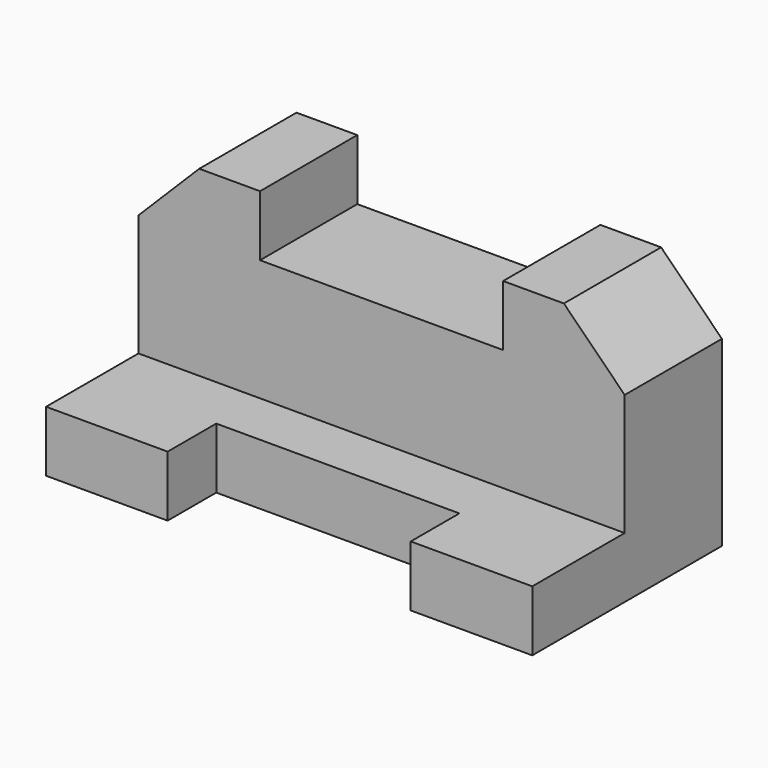
from build123d import *

# Parameters (mm, degrees)
F0_W      = 203.2
F0_H      = 76.2
F1_DEPTH  = 50.8
F2_W      = 50.8
F2_H      = 50.8
F3_DEPTH  = 25.4
F4_W      = 203.2
F4_H      = 25.4
F5_DEPTH  = 48.26
F6_W      = 101.6
F6_H      = 25.4
F7_DEPTH  = 25.4
F8_W      = 25.4
F8_H      = 50.8
F9_DEPTH  = 25.4
F11_DEPTH = 50.8


with BuildPart() as f1:
    # F0 (on Front) → F1 (new body)
    with BuildSketch(Plane.XZ):
        with Locations((-101.6, 38.1)):
            Rectangle(F0_W, F0_H)
    extrude(amount=F1_DEPTH)

    # F2 (on face) → F3 (join)
    with BuildSketch(Plane.XY.offset(76.2)):
        with Locations((-177.8, -25.4)):
            Rectangle(F2_W, F2_H)
        with Locations((-25.4, -25.4)):
            Rectangle(F2_W, F2_H)
    extrude(amount=F3_DEPTH)

    # F4 (on face) → F5 (join)
    with BuildSketch(Plane.XZ.offset(50.8)):
        with Locations((-101.6, 12.7)):
            Rectangle(F4_W, F4_H)
    extrude(amount=F5_DEPTH)

    # F6 (on face) → F7 (cut)
    with BuildSketch(Plane.XY.offset(25.4)):
        with Locations((-101.6, -86.36)):
            Rectangle(F6_W, F6_H)
    extrude(amount=-F7_DEPTH, mode=Mode.SUBTRACT)

    # F8 (on face) → F9 (cut)
    with BuildSketch(Plane.XY.offset(101.6)):
        with Locations((-12.7, -25.4)):
            Rectangle(F8_W, F8_H)
        with Locations((-190.5, -25.4)):
            Rectangle(F8_W, F8_H)
    extrude(amount=-F9_DEPTH, mode=Mode.SUBTRACT)

    # F10 (on face) → F11 (join)
    with BuildSketch(Plane.XZ.offset(50.8)):
        Polygon((0, 76.2), (-25.4, 101.6), (-25.4, 76.2), align=None)
        Polygon((-177.8, 101.6), (-203.2, 76.2), (-177.8, 76.2), align=None)
    extrude(amount=-F11_DEPTH)


solid = f1.part
